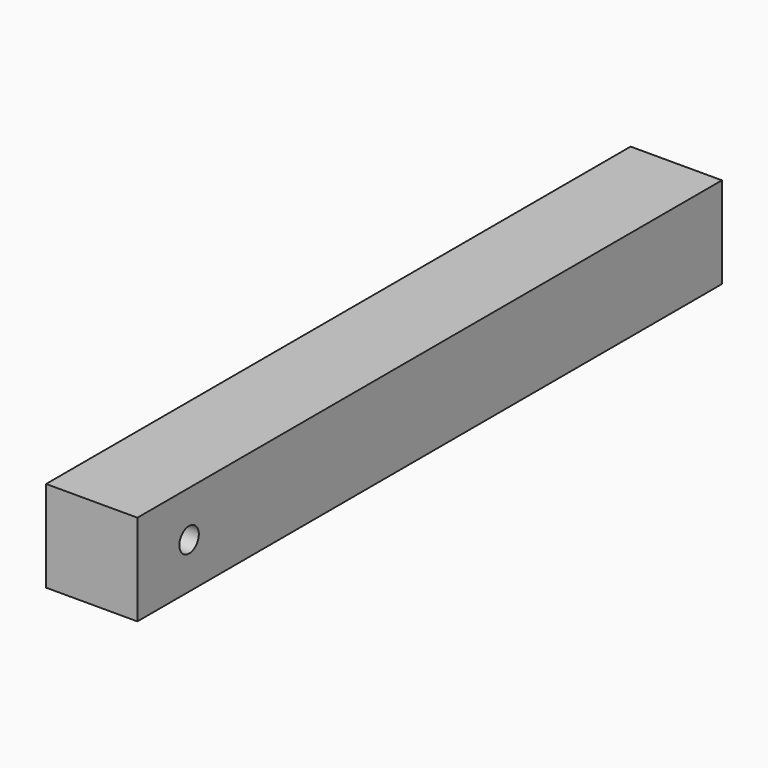
from build123d import *

# Parameters (mm, degrees)
SKETCH_W     = 30
SKETCH_H     = 30
PAD_DEPTH    = 240
SKETCH001_R  = 4
POCKET_DEPTH = 30.001


with BuildPart() as part:
    # Sketch → Pad (new body)
    with BuildSketch(Plane.XZ):
        with Locations((15, 15)):
            Rectangle(SKETCH_W, SKETCH_H)
    extrude(amount=PAD_DEPTH)

    # Sketch001 (on Face2 of Pad) → Pocket (cut, through all)
    with BuildSketch(Plane(origin=(30, 0, 0), x_dir=(0, 0, 1), z_dir=(1, 0, 0))):
        with Locations((15, 218.79)):
            Circle(SKETCH001_R)
    extrude(amount=-POCKET_DEPTH, mode=Mode.SUBTRACT)


solid = part.part
